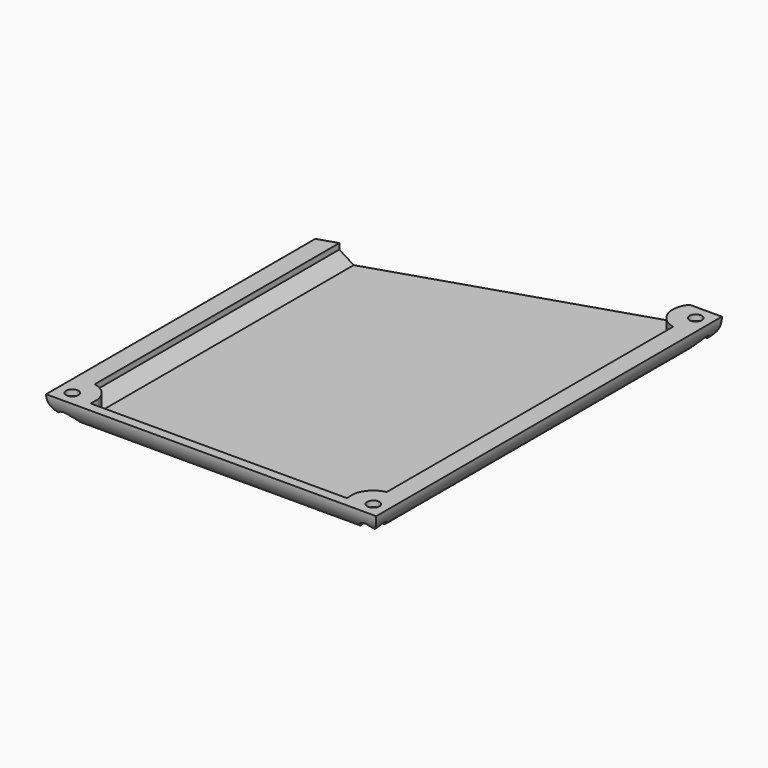
from build123d import *

# Parameters (mm, degrees)
SKETCH_W            = 86.36
SKETCH_H            = 113.03
PAD_DEPTH           = 10
SKETCH001_R         = 1.6
POCKET_DEPTH        = 1
POCKET001_DEPTH     = 9
CHAMFER_SIZE        = 3
FILLET_R            = 6
FILLET_FACE23_R     = 1.6
POCKET002_DEPTH     = 9.001
POCKET002_FACE25_R  = 1.6
POCKET003_DEPTH     = 9.001
SKETCH003_R         = 2.8
POCKET005_DEPTH     = 4
POCKET006_DEPTH     = 10.001
POCKET006_FACE37_R  = 1.6
POCKET007_DEPTH     = 9.0010001
POCKET007_FACE6_R   = 1.6
POCKET008_DEPTH     = 4.5
CHAMFER001_SIZE     = 3
CHAMFER001_FACE10_W = 66.9783844647
CHAMFER001_FACE10_H = 4.5
POCKET009_DEPTH     = 2.5
CHAMFER002_SIZE     = 1


with BuildPart() as part:
    # Sketch → Pad (new body)
    with BuildSketch(Plane.XY):
        Rectangle(SKETCH_W, SKETCH_H)
    extrude(amount=PAD_DEPTH)

    # Sketch001 (on Face6 of Pad) → Pocket (cut)
    with BuildSketch(Plane.XY.offset(10)):
        with Locations((-39.37, -52.705)):
            Circle(SKETCH001_R)
        with Locations((39.37, -52.705)):
            Circle(SKETCH001_R)
        with Locations((39.37, 52.705)):
            Circle(SKETCH001_R)
    extrude(amount=-POCKET_DEPTH, mode=Mode.SUBTRACT)

    # Sketch002 (on Face5 of Pocket) → Pocket001 (cut)
    with BuildSketch(Plane.XY.offset(10)):
        with BuildLine():
            Line((-38.18, 56.515), (34.734927185, 56.515))
            ThreePointArc((34.734927185, 56.515), (33.7166110056, 50.695225665), (38.18, 46.8241922324))
            Line((38.18, -46.8241922324), (38.18, 46.8241922324))
            ThreePointArc((38.18, -46.8241922324), (35.1273593129, -48.4623593129), (33.4891922324, -51.515))
            Line((-33.4891922324, -51.515), (33.4891922324, -51.515))
            ThreePointArc((-33.4891922324, -51.515), (-35.1273593129, -48.4623593129), (-38.18, -46.8241922324))
            Line((-38.18, -46.8241922324), (-38.18, 56.515))
        make_face()
    extrude(amount=-POCKET001_DEPTH, mode=Mode.SUBTRACT)

    # Chamfer
    chamfer_edges = [part.edges().sort_by_distance(p)[0] for p in [
        (43.18, 0, 0),
        (0, -56.515, 0),
        (-43.18, 0, 0),
    ]]
    chamfer(chamfer_edges, length=CHAMFER_SIZE)

    # Fillet
    fillet_edges = [part.edges().sort_by_distance(p)[0] for p in [
        (43.18, 0, 3),
        (0, -56.515, 3),
        (-43.18, 0, 3),
    ]]
    fillet(fillet_edges, radius=FILLET_R)

    # Fillet Face23 → Pocket002 (cut, through all)
    with BuildSketch(Plane(origin=(39.37, 52.705, 9), x_dir=(0, 1, 0), z_dir=(0, 0, 1))):
        Circle(FILLET_FACE23_R)
    extrude(amount=-POCKET002_DEPTH, mode=Mode.SUBTRACT)

    # Pocket002 Face25 → Pocket003 (cut, through all)
    with BuildSketch(Plane(origin=(39.37, -52.705, 9), x_dir=(0, 1, 0), z_dir=(0, 0, 1))):
        Circle(POCKET002_FACE25_R)
    extrude(amount=-POCKET003_DEPTH, mode=Mode.SUBTRACT)

    # Sketch003 → Pocket005 (cut)
    with BuildSketch(Plane(origin=(0, 0, 0), x_dir=(1, 0, 0), z_dir=(0, 0, -1))):
        with Locations((-39.37, 52.705)):
            Circle(SKETCH003_R)
        with Locations((39.37, 52.705)):
            Circle(SKETCH003_R)
        with Locations((39.37, -52.705)):
            Circle(SKETCH003_R)
    extrude(amount=-POCKET005_DEPTH, mode=Mode.SUBTRACT)

    # Sketch004 (on Face4 of Pocket005) → Pocket006 (cut, through all)
    with BuildSketch(Plane(origin=(0, 0, 0), x_dir=(1, 0, 0), z_dir=(0, 0, -1))):
        Polygon((34.734927185, -56.515), (-43.18, -31.515), (-74.957912, -45.45311), (-56.152271, -90.823143), (38.876451, -98.385315), align=None)
    extrude(amount=-POCKET006_DEPTH, mode=Mode.SUBTRACT)

    # Pocket006 Face37 → Pocket007 (cut, through all)
    with BuildSketch(Plane(origin=(-39.37, -52.705, 9), x_dir=(0, 1, 0), z_dir=(0, 0, 1))):
        Circle(POCKET006_FACE37_R)
    extrude(amount=-POCKET007_DEPTH, mode=Mode.SUBTRACT)

    # Pocket007 Face6 → Pocket008 (cut)
    with BuildSketch(Plane(origin=(4.1610773178, -17.506602636, 10), x_dir=(0, 1, 0), z_dir=(0, 0, 1))):
        with BuildLine():
            Line((-39.008397364, 47.3410773178), (-39.008397364, -39.0189226822))
            Line((-39.008397364, -39.0189226822), (74.021602636, -39.0189226822))
            Line((74.021602636, -39.0189226822), (74.021602636, -30.5738498672))
            ThreePointArc((74.021602636, -30.5738498672), (68.201828301, -29.5555336878), (64.3307948684, -34.0189226822))
            Line((64.3307948684, -34.0189226822), (-29.3175895963, -34.0189226822))
            ThreePointArc((-29.3175895963, -34.0189226822), (-30.9557566768, -30.9662819951), (-34.008397364, -29.3281149145))
            Line((-34.008397364, -29.3281149145), (-34.008397364, 37.6502695502))
            ThreePointArc((-34.008397364, 37.6502695502), (-30.9557566768, 39.2884366307), (-29.3175895963, 42.3410773178))
            Line((-29.3175895963, 42.3410773178), (50.6259165271, 42.3410773178))
            Line((50.6259165271, 42.3410773178), (49.021602636, 47.3410773178))
            Line((49.021602636, 47.3410773178), (-39.008397364, 47.3410773178))
        make_face()
        with Locations((-35.198397364, -35.2089226822)):
            Circle(POCKET007_FACE6_R, mode=Mode.SUBTRACT)
        with Locations((70.211602636, -35.2089226822)):
            Circle(POCKET007_FACE6_R, mode=Mode.SUBTRACT)
        with Locations((-35.198397364, 43.5310773178)):
            Circle(POCKET007_FACE6_R, mode=Mode.SUBTRACT)
    extrude(amount=-POCKET008_DEPTH, mode=Mode.SUBTRACT)

    # Chamfer001
    chamfer001_edges = [part.edges().sort_by_distance(p)[0] for p in [
        (-38.18, -6.852439, 1),
        (38.18, 0, 1),
    ]]
    chamfer(chamfer001_edges, length=CHAMFER001_SIZE)

    # Chamfer001 Face10 → Pocket009 (cut)
    with BuildSketch(Plane(origin=(0, -51.515, 3.25), x_dir=(1, 0, 0), z_dir=(0, 1, 0))):
        Rectangle(CHAMFER001_FACE10_W, CHAMFER001_FACE10_H)
    extrude(amount=-POCKET009_DEPTH, mode=Mode.SUBTRACT)

    # Chamfer002
    chamfer002_edges = [part.edges().sort_by_distance(p)[0] for p in [
        (0, -54.015, 1),
    ]]
    chamfer(chamfer002_edges, length=CHAMFER002_SIZE)


solid = part.part
